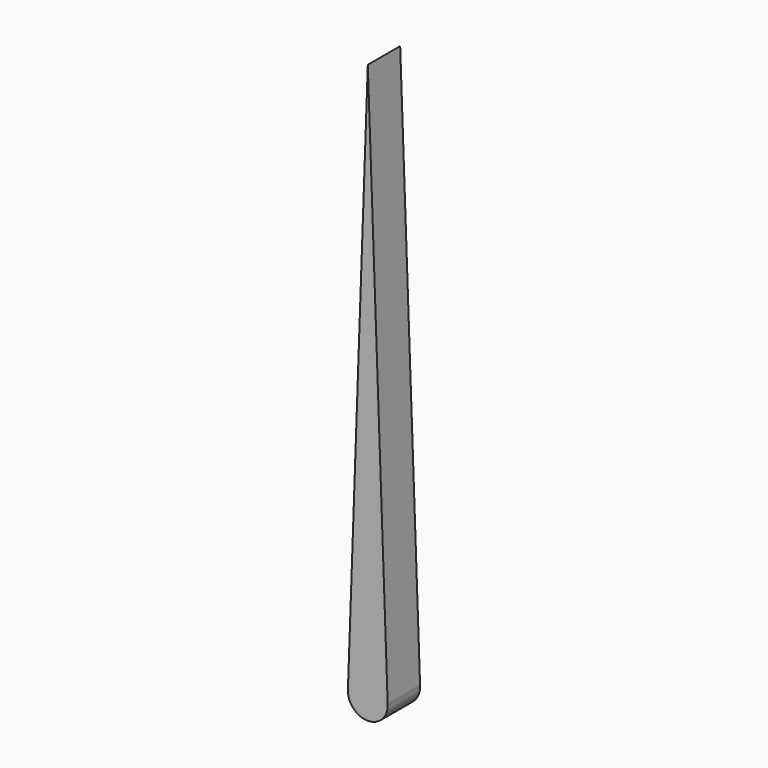
from build123d import *

# Parameters (mm, degrees)
F1_DEPTH = 2.54
F2_R     = 1.19
F3_DEPTH = 2.032


with BuildPart() as f1:
    # F0 (on Front) → F1 (new body)
    with BuildSketch(Plane.XZ):
        with BuildLine():
            Line((0, 34.9776714491), (-1.2468112245, 0.0892287537))
            ThreePointArc((-1.2468112245, 0.0892287537), (0, 1.25), (1.2468112245, 0.0892287537))
            Line((1.2468112245, 0.0892287537), (0, 34.9776714491))
        make_face()
        with BuildLine():
            Line((-1.2468112245, 0.0892287537), (-1.25, 0))
            ThreePointArc((-1.25, 0), (0, -1.25), (1.25, 0))
            Line((1.25, 0), (1.2468112245, 0.0892287537))
            ThreePointArc((1.2468112245, 0.0892287537), (0, 1.25), (-1.2468112245, 0.0892287537))
        make_face()
    extrude(amount=F1_DEPTH)

    # F2 (on face) → F3 (cut)
    with BuildSketch(Plane(origin=(0, 0, 0), x_dir=(-1, 0, 0), z_dir=(0, 1, 0))):
        Circle(F2_R)
    extrude(amount=-F3_DEPTH, mode=Mode.SUBTRACT)


solid = f1.part
